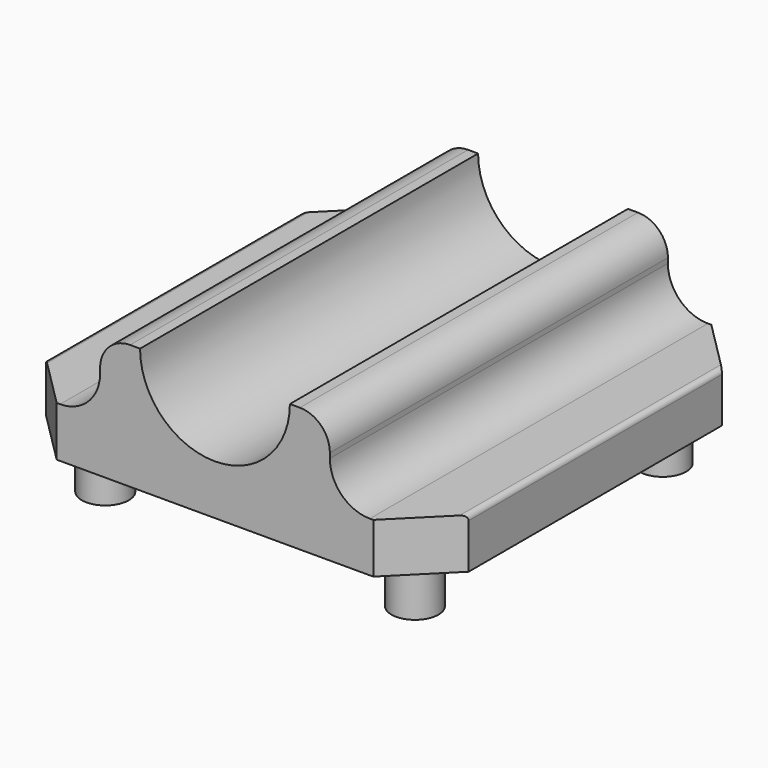
from build123d import *

# Parameters (mm, degrees)
PAD_DEPTH       = 5
SKETCH056_R     = 2.35
PAD023_DEPTH    = 5
SKETCH057_W     = 23
SKETCH057_H     = 42.3
PAD024_DEPTH    = 7.5
SKETCH058_R     = 7.5
POCKET013_DEPTH = 100
FILLET_R        = 4
FILLET002_R     = 3
FILLET003_R     = 0.5


with BuildPart() as part:
    # Sketch (on Face1 of Binder) → Pad (new body)
    with BuildSketch(Plane.XY.offset(68)):
        Polygon((-21.15, 15.8466991411), (-15.8466991411, 21.15), (15.8466991411, 21.15), (21.15, 15.8466991411), (21.15, -15.8466991411), (15.8466991411, -21.15), (-15.8466991411, -21.15), (-21.15, -15.8466991411), align=None)
    extrude(amount=PAD_DEPTH)

    # Sketch056 (on Face9 of Pad) → Pad023 (join)
    with BuildSketch(Plane(origin=(0, 0, 68), x_dir=(1, 0, 0), z_dir=(0, 0, -1))):
        with Locations((15.5, 15.5)):
            Circle(SKETCH056_R)
        with Locations((15.5, -15.5)):
            Circle(SKETCH056_R)
        with Locations((-15.5, -15.5)):
            Circle(SKETCH056_R)
        with Locations((-15.5, 15.5)):
            Circle(SKETCH056_R)
    extrude(amount=PAD023_DEPTH)

    # Sketch057 (on Face5 of Pad023) → Pad024 (join)
    with BuildSketch(Plane.XY.offset(73)):
        Rectangle(SKETCH057_W, SKETCH057_H)
    extrude(amount=PAD024_DEPTH)

    # Sketch058 (on Face20 of Pad024) → Pocket013 (cut)
    with BuildSketch(Plane.XZ.offset(21.15)):
        with Locations((0, 80.5)):
            Circle(SKETCH058_R)
    extrude(amount=-POCKET013_DEPTH, mode=Mode.SUBTRACT)

    # Fillet
    fillet_edges = [part.edges().sort_by_distance(p)[0] for p in [
        (11.5, 0, 73),
        (-11.5, 0, 73),
    ]]
    fillet(fillet_edges, radius=FILLET_R)

    # Fillet002
    fillet002_edges = [part.edges().sort_by_distance(p)[0] for p in [
        (-11.5, 0, 80.5),
        (11.5, 0, 80.5),
    ]]
    fillet(fillet002_edges, radius=FILLET002_R)

    # Fillet003
    fillet003_edges = [part.edges().sort_by_distance(p)[0] for p in [
        (21.15, 0, 73),
        (-21.15, 0, 73),
    ]]
    fillet(fillet003_edges, radius=FILLET003_R)


solid = part.part
